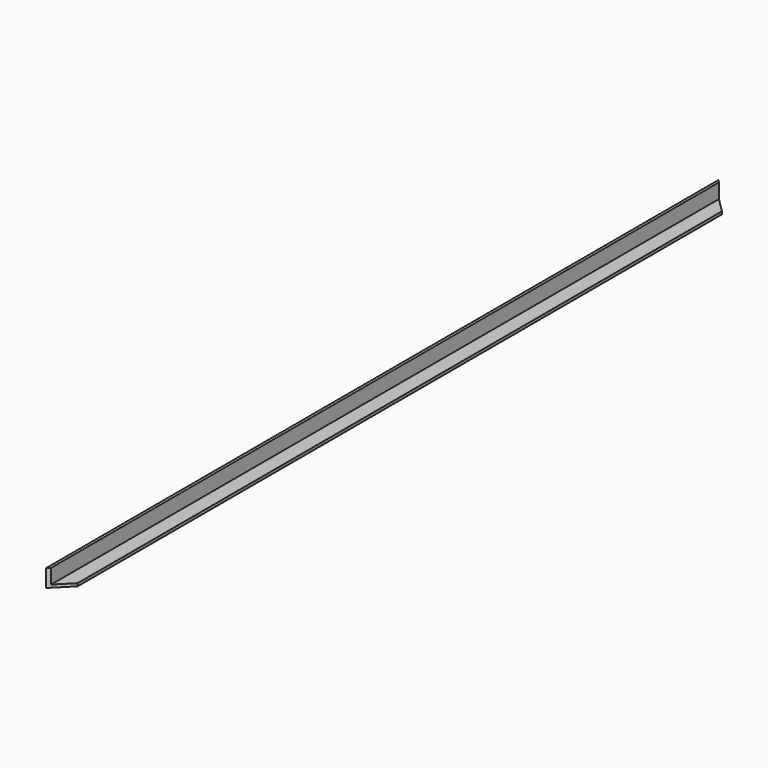
from build123d import *

# Parameters (mm, degrees)
F1_DEPTH = 914.4
F3_DEPTH = 19.051
F5_DEPTH = 19.051


with BuildPart() as f1:
    # F0 (on Front) → F1 (new body)
    with BuildSketch(Plane.XZ):
        Polygon((0, 19.05), (0, 0), (19.05, 0), (19.05, 3.048), (3.048, 3.048), (3.048, 19.05), align=None)
    extrude(amount=F1_DEPTH)

    # F2 (on face) → F3 (cut, through all)
    with BuildSketch(Plane(origin=(0, 0, 0), x_dir=(1, 0, 0), z_dir=(0, 0, -1))):
        Polygon((19.05, 914.4), (0, 914.4), (19.05, 895.35), align=None)
    extrude(amount=-F3_DEPTH, mode=Mode.SUBTRACT)

    # F4 (on face) → F5 (cut, through all)
    with BuildSketch(Plane(origin=(0, 0, 0), x_dir=(1, 0, 0), z_dir=(0, 0, -1))):
        Polygon((19.05, 19.05), (0, 0), (19.05, 0), align=None)
    extrude(amount=-F5_DEPTH, mode=Mode.SUBTRACT)


solid = f1.part
